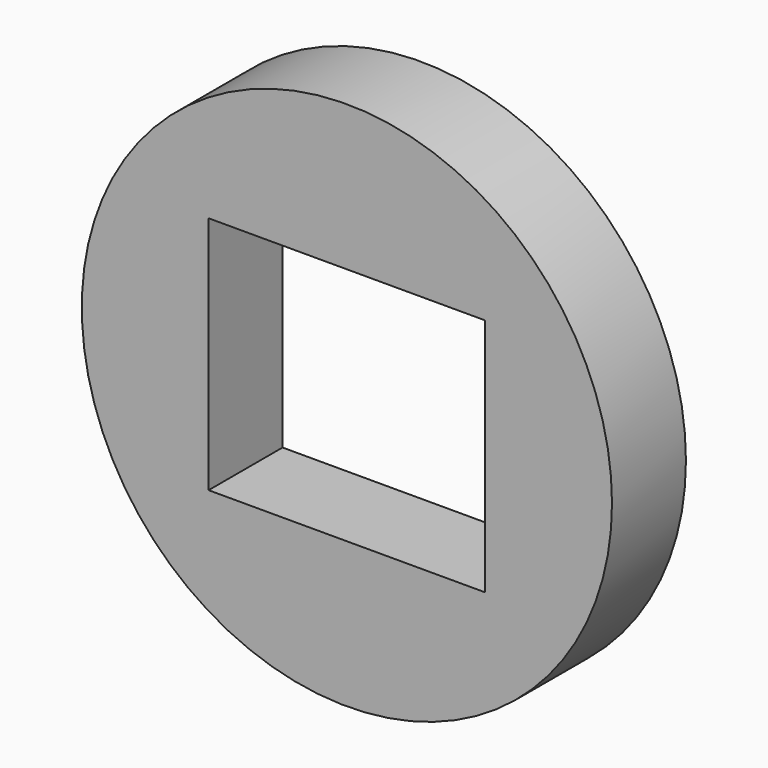
from build123d import *

# Parameters (mm, degrees)
F0_R     = 71.706783
F2_DEPTH = 25
F1_W     = 74.809388
F1_H     = 64.754448
F3_DEPTH = 25


with BuildPart() as f2:
    # F0 (on Front) → F2 (new body)
    with BuildSketch(Plane.XZ):
        Circle(F0_R)
    extrude(amount=F2_DEPTH)

    # F1 (on face) → F3 (cut, symmetric)
    with BuildSketch(Plane.XZ):
        Rectangle(F1_W, F1_H)
    extrude(amount=F3_DEPTH, both=True, mode=Mode.SUBTRACT)


solid = f2.part
